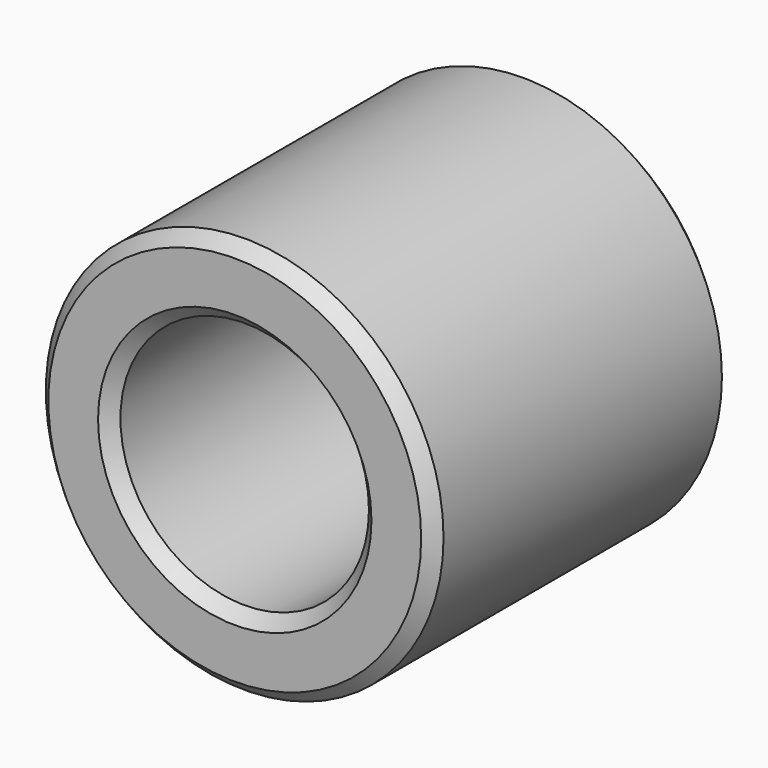
from build123d import *

# Parameters (mm, degrees)
F0_R     = 8
F0_R_2   = 5
F1_DEPTH = 7.5
F2_SIZE  = 0.5


with BuildPart() as f1:
    # F0 (on Front) → F1 (new body, symmetric)
    with BuildSketch(Plane.XZ):
        Circle(F0_R)
        Circle(F0_R_2, mode=Mode.SUBTRACT)
    extrude(amount=F1_DEPTH, both=True)

    # F2
    f2_edges = [f1.edges().sort_by_distance(p)[0] for p in [
        (-5, -7.5, 0),
        (5, 0, 0),
        (-5, 7.5, 0),
        (-8, 7.5, 0),
        (8, 0, 0),
        (-8, -7.5, 0),
    ]]
    chamfer(f2_edges, length=F2_SIZE)


solid = f1.part
